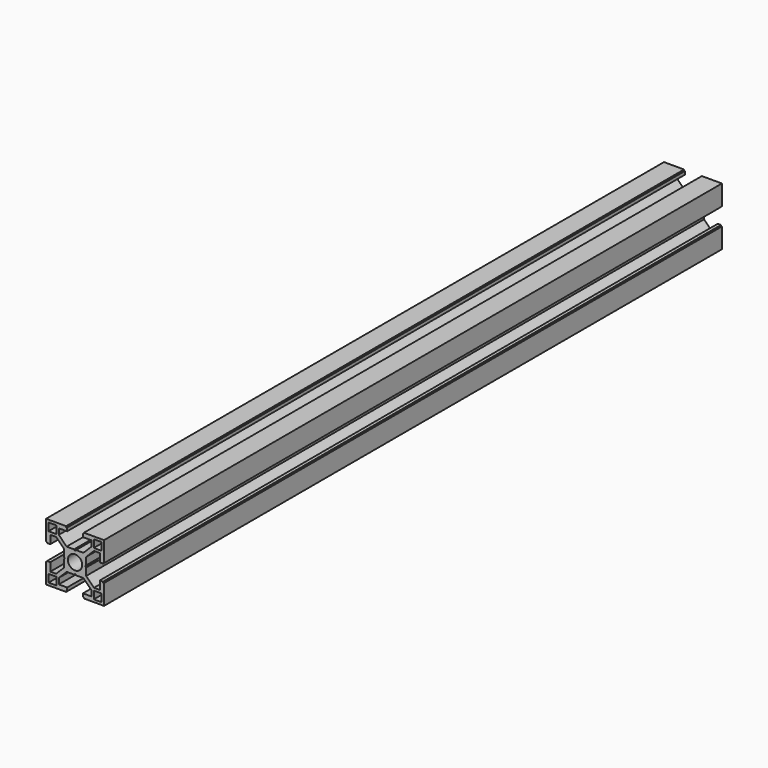
from build123d import *

# Parameters (mm, degrees)
F2_DEPTH = 400
F1_R     = 3.7
F1_W     = 4
F1_H     = 4
F3_DEPTH = 400.001


with BuildPart() as f2:
    # F0 (on Front) → F2 (new body)
    with BuildSketch(Plane.XZ):
        Polygon((-4.091443, 14.818899), (-14.491443, 14.818899), (-14.491443, 4.418899), (-13.991443, 4.418899), (-13.991443, 3.918899), (-12.291443, 3.918899), (-12.291443, 8.218899), (-9.291443, 8.218899), (-5.241443, 4.168899), (-5.241443, 0.318899), (-4.741443, -0.181101), (-5.241443, -0.681101), (-5.241443, -4.531101), (-9.291443, -8.581101), (-12.291443, -8.581101), (-12.291443, -4.281101), (-13.991443, -4.281101), (-13.991443, -4.781101), (-14.491443, -4.781101), (-14.491443, -15.181101), (-4.091443, -15.181101), (-4.091443, -14.681101), (-3.591443, -14.681101), (-3.591443, -12.981101), (-7.891443, -12.981101), (-7.891443, -9.981101), (-3.841443, -5.931101), (0.008557, -5.931101), (0.508557, -5.431101), (1.008557, -5.931101), (4.858557, -5.931101), (8.908557, -9.981101), (8.908557, -12.981101), (4.608557, -12.981101), (4.608557, -14.681101), (5.108532, -14.681101), (5.108532, -15.181101), (15.508557, -15.181101), (15.508557, -4.781101), (15.008557, -4.781101), (15.008557, -4.281101), (13.308557, -4.281101), (13.308557, -8.581101), (10.308557, -8.581101), (6.258557, -4.531101), (6.258557, -0.681101), (5.758557, -0.181101), (6.258557, 0.318899), (6.258557, 4.168899), (10.308557, 8.218899), (13.308557, 8.218899), (13.308557, 3.918899), (15.008557, 3.918899), (15.008557, 4.418899), (15.508557, 4.418899), (15.508557, 14.818899), (5.108532, 14.818899), (5.108532, 14.318899), (4.608557, 14.323857), (4.608557, 12.623857), (8.908557, 12.623857), (8.908557, 9.623857), (4.853598, 5.568899), (1.003598, 5.568899), (0.508557, 5.068899), (0.003549, 5.568899), (-3.846451, 5.568899), (-7.891443, 9.618899), (-7.891443, 12.618899), (-3.591443, 12.618899), (-3.591443, 14.318899), (-4.091443, 14.318899), align=None)
    extrude(amount=F2_DEPTH)

    # F1 (on Front) → F3 (cut, through all)
    with BuildSketch(Plane.XZ):
        with Locations((0.508557, -0.181101)):
            Circle(F1_R)
        with Locations((12.228557, 11.538899)):
            Rectangle(F1_W, F1_H)
        with Locations((12.228557, -11.901101)):
            Rectangle(F1_W, F1_H)
        with Locations((-11.211443, -11.901101)):
            Rectangle(F1_W, F1_H)
        with Locations((-11.211443, 11.53863)):
            Rectangle(F1_W, F1_H)
    extrude(amount=F3_DEPTH, mode=Mode.SUBTRACT)


solid = f2.part
